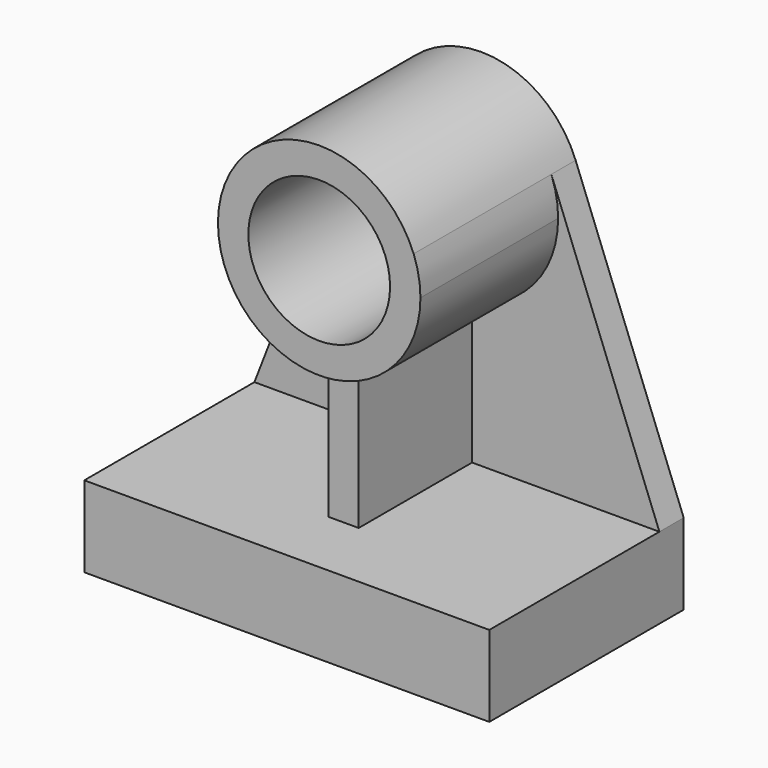
from build123d import *

# Parameters (mm, degrees)
F0_R     = 44.45
F1_DEPTH = 127
F2_DEPTH = 19.05
F3_DEPTH = 152.4
F4_DEPTH = 107.95


with BuildPart() as f1:
    # F0 (on Front) → F1 (new body)
    with BuildSketch(Plane.XZ):
        with BuildLine():
            ThreePointArc((9.525, -62.781561), (48.151259, -41.396935), (63.5, 0))
            ThreePointArc((63.5, 0), (62.4228, 11.646632), (59.227747, 22.898122))
            ThreePointArc((59.227747, 22.898122), (0, 63.5), (-59.227747, 22.898122))
            ThreePointArc((-59.227747, 22.898122), (-54.927107, -31.863191), (-9.525, -62.781561))
            ThreePointArc((-9.525, -62.781561), (0, -63.5), (9.525, -62.781561))
        make_face()
        Circle(F0_R, mode=Mode.SUBTRACT)
    extrude(amount=F1_DEPTH)

    # F0 (on Front) → F2 (join)
    with BuildSketch(Plane.XZ):
        with BuildLine():
            ThreePointArc((59.227747, 22.898122), (62.4228, 11.646632), (63.5, 0))
            ThreePointArc((63.5, 0), (48.151259, -41.396935), (9.525, -62.781561))
            Line((9.525, -62.781561), (9.525, -152.4))
            Line((9.525, -152.4), (127, -152.4))
            Line((127, -152.4), (59.227747, 22.898122))
        make_face()
        with BuildLine():
            ThreePointArc((-9.525, -62.781561), (-54.927107, -31.863191), (-59.227747, 22.898122))
            Line((-59.227747, 22.898122), (-127, -152.4))
            Line((-127, -152.4), (-9.525, -152.4))
            Line((-9.525, -152.4), (-9.525, -62.781561))
        make_face()
    extrude(amount=F2_DEPTH)

    # F0 (on Front) → F3 (join)
    with BuildSketch(Plane.XZ):
        Polygon((127, -203.2), (127, -152.4), (9.525, -152.4), (-9.525, -152.4), (-127, -152.4), (-127, -203.2), align=None)
    extrude(amount=F3_DEPTH)

    # F0 (on Front) → F4 (join)
    with BuildSketch(Plane.XZ):
        with BuildLine():
            Line((9.525, -152.4), (9.525, -62.781561))
            ThreePointArc((9.525, -62.781561), (0, -63.5), (-9.525, -62.781561))
            Line((-9.525, -62.781561), (-9.525, -152.4))
            Line((-9.525, -152.4), (9.525, -152.4))
        make_face()
    extrude(amount=F4_DEPTH)


solid = f1.part
